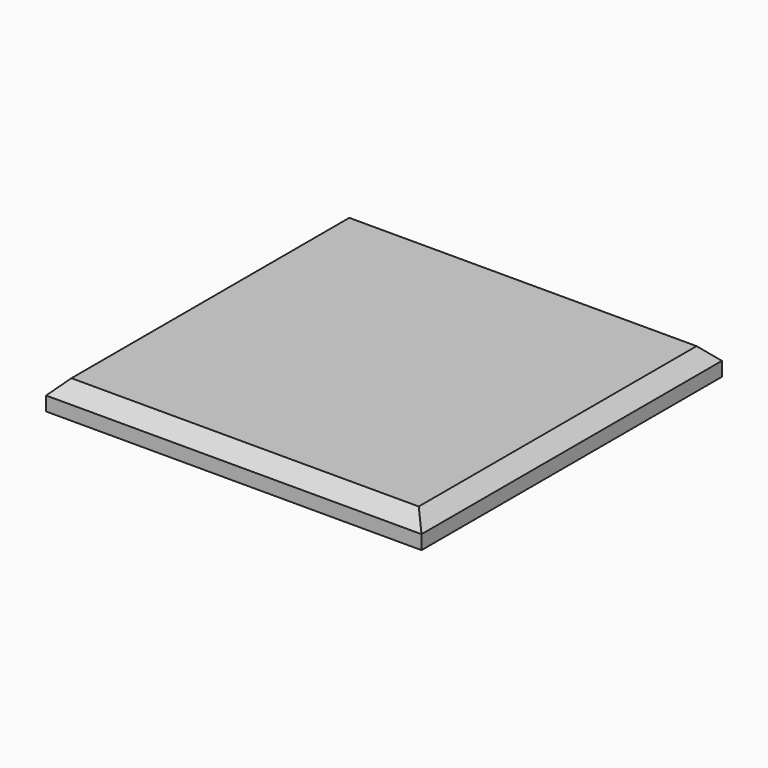
from build123d import *

# Parameters (mm, degrees)
F0_W     = 400
F0_H     = 400
F1_DEPTH = 30
F2_SIZE  = 15


with BuildPart() as f1:
    # F0 (on Top) → F1 (new body)
    with BuildSketch(Plane.XY):
        Rectangle(F0_W, F0_H)
    extrude(amount=F1_DEPTH)

    # F2
    f2_edges = [f1.edges().sort_by_distance(p)[0] for p in [
        (0, -200, 30),
        (200, 0, 30),
        (0, 200, 30),
        (-200, 0, 30),
    ]]
    chamfer(f2_edges, length=F2_SIZE)


solid = f1.part
